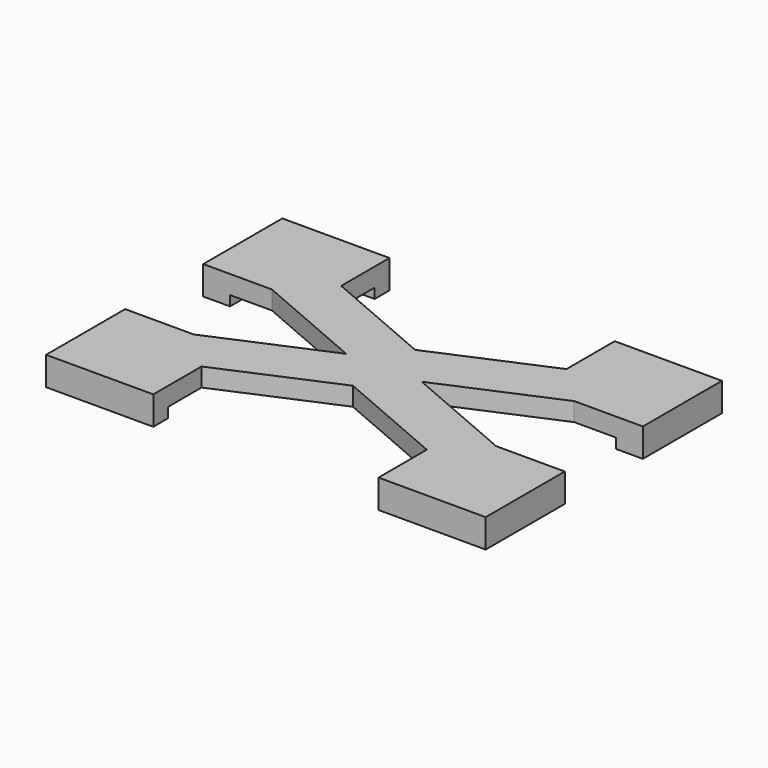
from build123d import *

# Parameters (mm, degrees)
F1_DEPTH  = 20.55
F2_W      = 215.725
F2_H      = 215.725
F3_DEPTH  = 38
F5_DEPTH  = 58.55
F6_W      = 76
F6_H      = 76
F7_DEPTH  = 38.001
F9_DEPTH  = 3
F11_DEPTH = 3
F12_W     = 221.725
F12_H     = 19
F13_DEPTH = 58.551
F14_W     = 2
F14_H     = 202.725
F15_DEPTH = 58.551
F17_DEPTH = 38
F19_DEPTH = 20.55


with BuildPart() as f1:
    # F0 (on Top) → F1 (new body)
    with BuildSketch(Plane.XY):
        Polygon((-53.8625, 53.8625), (107.8625, 53.8625), (107.8625, 107.8625), (-107.8625, 107.8625), (-107.8625, -107.8625), (-53.8625, -107.8625), align=None)
    extrude(amount=F1_DEPTH)

    # F2 (on face) → F3 (join)
    with BuildSketch(Plane.XY.offset(20.55)):
        Rectangle(F2_W, F2_H)
    extrude(amount=F3_DEPTH)

    # F4 (on face) → F5 (join, through all)
    with BuildSketch(Plane.XY.offset(58.55)):
        Polygon((-110.8625, -107.8625), (-107.8625, -107.8625), (-107.8625, 107.8625), (107.8625, 107.8625), (107.8625, 110.8625), (-110.8625, 110.8625), align=None)
    extrude(amount=-F5_DEPTH)

    # F6 (on face) → F7 (cut, through all)
    with BuildSketch(Plane(origin=(0, 0, 20.55), x_dir=(1, 0, 0), z_dir=(0, 0, -1))):
        with Locations((69.8625, 69.8625)):
            Rectangle(F6_W, F6_H)
    extrude(amount=-F7_DEPTH, mode=Mode.SUBTRACT)

    # F8 (on face) → F9 (join)
    with BuildSketch(Plane.YZ.offset(107.8625)):
        Polygon((110.8625, 58.55), (-31.8625, 58.55), (-31.8625, 20.55), (53.8625, 20.55), (53.8625, 0), (110.8625, 0), align=None)
    extrude(amount=F9_DEPTH)

    # F10 (on face) → F11 (join)
    with BuildSketch(Plane.XZ.offset(107.8625)):
        Polygon((31.8625, 58.55), (-110.8625, 58.55), (-110.8625, 0), (-53.8625, 0), (-53.8625, 20.55), (31.8625, 20.55), align=None)
    extrude(amount=F11_DEPTH)

    # F12 (on face) → F13 (cut, through all)
    with BuildSketch(Plane(origin=(0, 0, 0), x_dir=(1, 0, 0), z_dir=(0, 0, -1))):
        with Locations((0, -101.3625)):
            Rectangle(F12_W, F12_H)
    extrude(amount=-F13_DEPTH, mode=Mode.SUBTRACT)

    # F14 (on face) → F15 (cut, through all)
    with BuildSketch(Plane(origin=(0, 0, 0), x_dir=(1, 0, 0), z_dir=(0, 0, -1))):
        with Locations((-109.8625, 9.5)):
            Rectangle(F14_W, F14_H)
    extrude(amount=-F15_DEPTH, mode=Mode.SUBTRACT)

    # F16 (on face) → F17 (join)
    with BuildSketch(Plane.XY.offset(58.55)):
        Polygon((110.8625, -31.8625), (31.8625, -31.8625), (31.8625, -110.8625), (264.2625, -210.8625), (31.8625, -310.8625), (-108.8625, -310.8625), (-108.8625, -513.5875), (110.8625, -513.5875), (110.8625, -389.8625), (341.7625, -290.507939), (572.6625, -389.8625), (572.6625, -513.5875), (792.3875, -513.5875), (792.3875, -310.8625), (651.6625, -310.8625), (419.2625, -210.8625), (651.6625, -110.8625), (792.3875, -110.8625), (792.3875, 91.8625), (572.6625, 91.8625), (572.6625, -31.8625), (341.7625, -131.217061), align=None)
    extrude(amount=-F17_DEPTH)

    # F18 (on face) → F19 (join, through all)
    with BuildSketch(Plane(origin=(0, 0, 20.55), x_dir=(1, 0, 0), z_dir=(0, 0, -1))):
        Polygon((-108.8625, 310.8625), (-53.8625, 310.8625), (-53.8625, 475.5875), (110.8625, 475.5875), (110.8625, 513.5875), (-108.8625, 513.5875), align=None)
        Polygon((737.3875, 475.5875), (737.3875, 310.8625), (792.3875, 310.8625), (792.3875, 513.5875), (572.6625, 513.5875), (572.6625, 475.5875), align=None)
        Polygon((737.3875, -53.8625), (572.6625, -53.8625), (572.6625, -91.8625), (792.3875, -91.8625), (792.3875, 110.8625), (737.3875, 110.8625), align=None)
    extrude(amount=F19_DEPTH)


solid = f1.part
